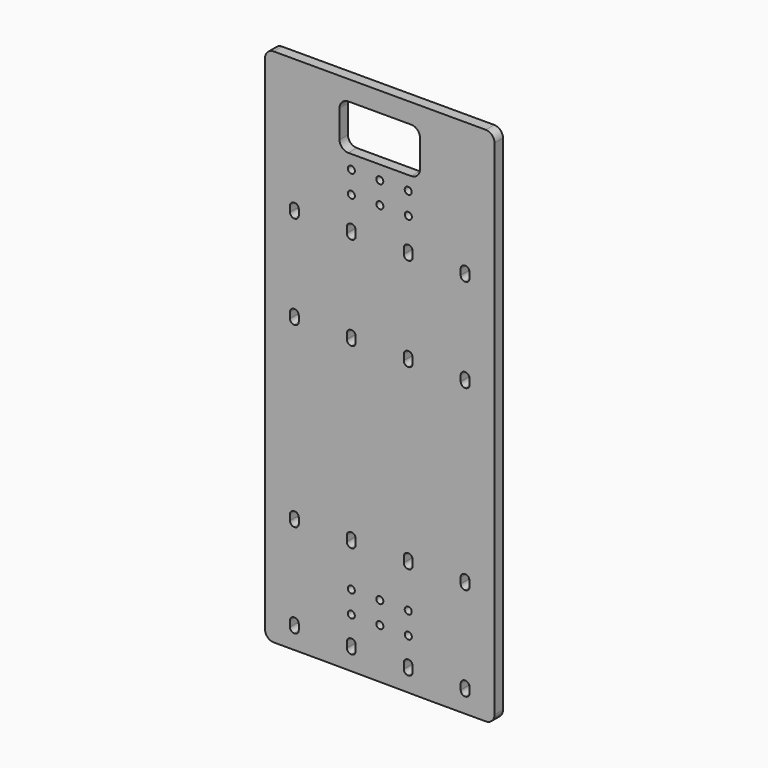
from build123d import *

# Parameters (mm, degrees)
F0_R     = 2
F1_DEPTH = 6


with BuildPart() as f1:
    # F0 (on Front) → F1 (new body)
    with BuildSketch(Plane.XZ):
        with BuildLine():
            Line((-77.552805, -139.906804), (-77.552805, 107.460736))
            Line((-77.552805, 107.460736), (-125.050502, 107.460736))
            ThreePointArc((-125.050502, 107.460736), (-124.724624, 106.873118), (-124.611752, 106.210736))
            ThreePointArc((-124.611752, 106.210736), (-127.274134, 104.323609), (-128.173001, 107.460736))
            Line((-128.173001, 107.460736), (-141.220502, 107.460736))
            ThreePointArc((-141.220502, 107.460736), (-140.894624, 106.873118), (-140.781752, 106.210736))
            ThreePointArc((-140.781752, 106.210736), (-143.444134, 104.323609), (-144.343001, 107.460736))
            Line((-144.343001, 107.460736), (-157.390502, 107.460736))
            ThreePointArc((-157.390502, 107.460736), (-157.064624, 106.873118), (-156.951752, 106.210736))
            ThreePointArc((-156.951752, 106.210736), (-159.614134, 104.323609), (-160.513001, 107.460736))
            Line((-160.513001, 107.460736), (-208.010698, 107.460736))
            Line((-208.010698, 107.460736), (-208.010698, -139.570798))
            ThreePointArc((-208.010698, -139.570798), (-206.546232, -143.106332), (-203.010698, -144.570798))
            Line((-203.010698, -144.570798), (-173.010698, -144.570798))
            Line((-173.010698, -144.570798), (-112.552805, -144.906804))
            Line((-112.552805, -144.906804), (-82.552805, -144.906804))
            ThreePointArc((-82.552805, -144.906804), (-79.017271, -143.442338), (-77.552805, -139.906804))
        make_face()
        with BuildLine():
            Line((-193.810254, -133.860357), (-193.810254, -130.634357))
            ThreePointArc((-193.810254, -130.634357), (-193.111118, -128.946493), (-191.423254, -128.247357))
            Line((-191.423254, -128.247357), (-191.197254, -128.247357))
            ThreePointArc((-191.197254, -128.247357), (-189.50939, -128.946493), (-188.810254, -130.634357))
            Line((-188.810254, -130.634357), (-188.810254, -133.860357))
            ThreePointArc((-188.810254, -133.860357), (-189.50939, -135.548221), (-191.197254, -136.247357))
            Line((-191.197254, -136.247357), (-191.423254, -136.247357))
            ThreePointArc((-191.423254, -136.247357), (-193.111118, -135.548221), (-193.810254, -133.860357))
        make_face(mode=Mode.SUBTRACT)
        with BuildLine():
            ThreePointArc((-193.810254, -77.454357), (-193.111118, -75.766493), (-191.423254, -75.067357))
            Line((-191.423254, -75.067357), (-191.197254, -75.067357))
            ThreePointArc((-191.197254, -75.067357), (-189.50939, -75.766493), (-188.810254, -77.454357))
            Line((-188.810254, -77.454357), (-188.810254, -80.680357))
            ThreePointArc((-188.810254, -80.680357), (-189.50939, -82.368221), (-191.197254, -83.067357))
            Line((-191.197254, -83.067357), (-191.423254, -83.067357))
            ThreePointArc((-191.423254, -83.067357), (-193.111118, -82.368221), (-193.810254, -80.680357))
            Line((-193.810254, -80.680357), (-193.810254, -77.454357))
        make_face(mode=Mode.SUBTRACT)
        with BuildLine():
            Line((-159.083254, -128.247357), (-158.857254, -128.247357))
            ThreePointArc((-158.857254, -128.247357), (-157.16939, -128.946493), (-156.470254, -130.634357))
            Line((-156.470254, -130.634357), (-156.470254, -133.860357))
            ThreePointArc((-156.470254, -133.860357), (-157.16939, -135.548221), (-158.857254, -136.247357))
            Line((-158.857254, -136.247357), (-159.083254, -136.247357))
            ThreePointArc((-159.083254, -136.247357), (-160.771118, -135.548221), (-161.470254, -133.860357))
            Line((-161.470254, -133.860357), (-161.470254, -130.634357))
            ThreePointArc((-161.470254, -130.634357), (-160.771118, -128.946493), (-159.083254, -128.247357))
        make_face(mode=Mode.SUBTRACT)
        with Locations((-158.951752, -116.289175)):
            Circle(F0_R, mode=Mode.SUBTRACT)
        with Locations((-158.951752, -103.789264)):
            Circle(F0_R, mode=Mode.SUBTRACT)
        with Locations((-142.781752, -103.789264)):
            Circle(F0_R, mode=Mode.SUBTRACT)
        with BuildLine():
            ThreePointArc((-161.470254, -77.454357), (-160.771118, -75.766493), (-159.083254, -75.067357))
            Line((-159.083254, -75.067357), (-158.857254, -75.067357))
            ThreePointArc((-158.857254, -75.067357), (-157.16939, -75.766493), (-156.470254, -77.454357))
            Line((-156.470254, -77.454357), (-156.470254, -80.680357))
            ThreePointArc((-156.470254, -80.680357), (-157.16939, -82.368221), (-158.857254, -83.067357))
            Line((-158.857254, -83.067357), (-159.083254, -83.067357))
            ThreePointArc((-159.083254, -83.067357), (-160.771118, -82.368221), (-161.470254, -80.680357))
            Line((-161.470254, -80.680357), (-161.470254, -77.454357))
        make_face(mode=Mode.SUBTRACT)
        with BuildLine():
            ThreePointArc((-129.130254, -130.634357), (-128.431118, -128.946493), (-126.743254, -128.247357))
            Line((-126.743254, -128.247357), (-126.517254, -128.247357))
            ThreePointArc((-126.517254, -128.247357), (-124.82939, -128.946493), (-124.130254, -130.634357))
            Line((-124.130254, -130.634357), (-124.130254, -133.860357))
            ThreePointArc((-124.130254, -133.860357), (-124.82939, -135.548221), (-126.517254, -136.247357))
            Line((-126.517254, -136.247357), (-126.743254, -136.247357))
            ThreePointArc((-126.743254, -136.247357), (-128.431118, -135.548221), (-129.130254, -133.860357))
            Line((-129.130254, -133.860357), (-129.130254, -130.634357))
        make_face(mode=Mode.SUBTRACT)
        with Locations((-142.734582, -116.289175)):
            Circle(F0_R, mode=Mode.SUBTRACT)
        with Locations((-126.564582, -116.289175)):
            Circle(F0_R, mode=Mode.SUBTRACT)
        with Locations((-126.611752, -103.789264)):
            Circle(F0_R, mode=Mode.SUBTRACT)
        with BuildLine():
            ThreePointArc((-129.130254, -77.454357), (-128.431118, -75.766493), (-126.743254, -75.067357))
            Line((-126.743254, -75.067357), (-126.517254, -75.067357))
            ThreePointArc((-126.517254, -75.067357), (-124.82939, -75.766493), (-124.130254, -77.454357))
            Line((-124.130254, -77.454357), (-124.130254, -80.680357))
            ThreePointArc((-124.130254, -80.680357), (-124.82939, -82.368221), (-126.517254, -83.067357))
            Line((-126.517254, -83.067357), (-126.743254, -83.067357))
            ThreePointArc((-126.743254, -83.067357), (-128.431118, -82.368221), (-129.130254, -80.680357))
            Line((-129.130254, -80.680357), (-129.130254, -77.454357))
        make_face(mode=Mode.SUBTRACT)
        with BuildLine():
            ThreePointArc((-94.403254, -136.247357), (-96.091118, -135.548221), (-96.790254, -133.860357))
            Line((-96.790254, -133.860357), (-96.790254, -130.634357))
            ThreePointArc((-96.790254, -130.634357), (-96.091118, -128.946493), (-94.403254, -128.247357))
            Line((-94.403254, -128.247357), (-94.177254, -128.247357))
            ThreePointArc((-94.177254, -128.247357), (-92.48939, -128.946493), (-91.790254, -130.634357))
            Line((-91.790254, -130.634357), (-91.790254, -133.860357))
            ThreePointArc((-91.790254, -133.860357), (-92.48939, -135.548221), (-94.177254, -136.247357))
            Line((-94.177254, -136.247357), (-94.403254, -136.247357))
        make_face(mode=Mode.SUBTRACT)
        with BuildLine():
            ThreePointArc((-94.177254, -75.067357), (-92.48939, -75.766493), (-91.790254, -77.454357))
            Line((-91.790254, -77.454357), (-91.790254, -80.680357))
            ThreePointArc((-91.790254, -80.680357), (-92.48939, -82.368221), (-94.177254, -83.067357))
            Line((-94.177254, -83.067357), (-94.403254, -83.067357))
            ThreePointArc((-94.403254, -83.067357), (-96.091118, -82.368221), (-96.790254, -80.680357))
            Line((-96.790254, -80.680357), (-96.790254, -77.454357))
            ThreePointArc((-96.790254, -77.454357), (-96.091118, -75.766493), (-94.403254, -75.067357))
            Line((-94.403254, -75.067357), (-94.177254, -75.067357))
        make_face(mode=Mode.SUBTRACT)
        with BuildLine():
            ThreePointArc((-191.423254, 18.072643), (-193.111118, 18.771779), (-193.810254, 20.459643))
            Line((-193.810254, 20.459643), (-193.810254, 23.685643))
            ThreePointArc((-193.810254, 23.685643), (-193.111118, 25.373507), (-191.423254, 26.072643))
            Line((-191.423254, 26.072643), (-191.197254, 26.072643))
            ThreePointArc((-191.197254, 26.072643), (-189.50939, 25.373507), (-188.810254, 23.685643))
            Line((-188.810254, 23.685643), (-188.810254, 20.459643))
            ThreePointArc((-188.810254, 20.459643), (-189.50939, 18.771779), (-191.197254, 18.072643))
            Line((-191.197254, 18.072643), (-191.423254, 18.072643))
        make_face(mode=Mode.SUBTRACT)
        with BuildLine():
            ThreePointArc((-191.423254, 71.252643), (-193.111118, 71.951779), (-193.810254, 73.639643))
            Line((-193.810254, 73.639643), (-193.810254, 76.865643))
            ThreePointArc((-193.810254, 76.865643), (-193.111118, 78.553507), (-191.423254, 79.252643))
            Line((-191.423254, 79.252643), (-191.197254, 79.252643))
            ThreePointArc((-191.197254, 79.252643), (-189.50939, 78.553507), (-188.810254, 76.865643))
            Line((-188.810254, 76.865643), (-188.810254, 73.639643))
            ThreePointArc((-188.810254, 73.639643), (-189.50939, 71.951779), (-191.197254, 71.252643))
            Line((-191.197254, 71.252643), (-191.423254, 71.252643))
        make_face(mode=Mode.SUBTRACT)
        with BuildLine():
            ThreePointArc((-159.083254, 18.072643), (-160.771118, 18.771779), (-161.470254, 20.459643))
            Line((-161.470254, 20.459643), (-161.470254, 23.685643))
            ThreePointArc((-161.470254, 23.685643), (-160.771118, 25.373507), (-159.083254, 26.072643))
            Line((-159.083254, 26.072643), (-158.857254, 26.072643))
            ThreePointArc((-158.857254, 26.072643), (-157.16939, 25.373507), (-156.470254, 23.685643))
            Line((-156.470254, 23.685643), (-156.470254, 20.459643))
            ThreePointArc((-156.470254, 20.459643), (-157.16939, 18.771779), (-158.857254, 18.072643))
            Line((-158.857254, 18.072643), (-159.083254, 18.072643))
        make_face(mode=Mode.SUBTRACT)
        with BuildLine():
            ThreePointArc((-159.083254, 71.252643), (-160.771118, 71.951779), (-161.470254, 73.639643))
            Line((-161.470254, 73.639643), (-161.470254, 76.865643))
            ThreePointArc((-161.470254, 76.865643), (-160.771118, 78.553507), (-159.083254, 79.252643))
            Line((-159.083254, 79.252643), (-158.857254, 79.252643))
            ThreePointArc((-158.857254, 79.252643), (-157.16939, 78.553507), (-156.470254, 76.865643))
            Line((-156.470254, 76.865643), (-156.470254, 73.639643))
            ThreePointArc((-156.470254, 73.639643), (-157.16939, 71.951779), (-158.857254, 71.252643))
            Line((-158.857254, 71.252643), (-159.083254, 71.252643))
        make_face(mode=Mode.SUBTRACT)
        with Locations((-158.951752, 93.710825)):
            Circle(F0_R, mode=Mode.SUBTRACT)
        with BuildLine():
            ThreePointArc((-126.743254, 18.072643), (-128.431118, 18.771779), (-129.130254, 20.459643))
            Line((-129.130254, 20.459643), (-129.130254, 23.685643))
            ThreePointArc((-129.130254, 23.685643), (-128.431118, 25.373507), (-126.743254, 26.072643))
            Line((-126.743254, 26.072643), (-126.517254, 26.072643))
            ThreePointArc((-126.517254, 26.072643), (-124.82939, 25.373507), (-124.130254, 23.685643))
            Line((-124.130254, 23.685643), (-124.130254, 20.459643))
            ThreePointArc((-124.130254, 20.459643), (-124.82939, 18.771779), (-126.517254, 18.072643))
            Line((-126.517254, 18.072643), (-126.743254, 18.072643))
        make_face(mode=Mode.SUBTRACT)
        with BuildLine():
            ThreePointArc((-126.743254, 71.252643), (-128.431118, 71.951779), (-129.130254, 73.639643))
            Line((-129.130254, 73.639643), (-129.130254, 76.865643))
            ThreePointArc((-129.130254, 76.865643), (-128.431118, 78.553507), (-126.743254, 79.252643))
            Line((-126.743254, 79.252643), (-126.517254, 79.252643))
            ThreePointArc((-126.517254, 79.252643), (-124.82939, 78.553507), (-124.130254, 76.865643))
            Line((-124.130254, 76.865643), (-124.130254, 73.639643))
            ThreePointArc((-124.130254, 73.639643), (-124.82939, 71.951779), (-126.517254, 71.252643))
            Line((-126.517254, 71.252643), (-126.743254, 71.252643))
        make_face(mode=Mode.SUBTRACT)
        with BuildLine():
            ThreePointArc((-94.403254, 18.072643), (-96.091118, 18.771779), (-96.790254, 20.459643))
            Line((-96.790254, 20.459643), (-96.790254, 23.685643))
            ThreePointArc((-96.790254, 23.685643), (-96.091118, 25.373507), (-94.403254, 26.072643))
            Line((-94.403254, 26.072643), (-94.177254, 26.072643))
            ThreePointArc((-94.177254, 26.072643), (-92.48939, 25.373507), (-91.790254, 23.685643))
            Line((-91.790254, 23.685643), (-91.790254, 20.459643))
            ThreePointArc((-91.790254, 20.459643), (-92.48939, 18.771779), (-94.177254, 18.072643))
            Line((-94.177254, 18.072643), (-94.403254, 18.072643))
        make_face(mode=Mode.SUBTRACT)
        with BuildLine():
            Line((-94.403254, 79.252643), (-94.177254, 79.252643))
            ThreePointArc((-94.177254, 79.252643), (-92.48939, 78.553507), (-91.790254, 76.865643))
            Line((-91.790254, 76.865643), (-91.790254, 73.639643))
            ThreePointArc((-91.790254, 73.639643), (-92.48939, 71.951779), (-94.177254, 71.252643))
            Line((-94.177254, 71.252643), (-94.403254, 71.252643))
            ThreePointArc((-94.403254, 71.252643), (-96.091118, 71.951779), (-96.790254, 73.639643))
            Line((-96.790254, 73.639643), (-96.790254, 76.865643))
            ThreePointArc((-96.790254, 76.865643), (-96.091118, 78.553507), (-94.403254, 79.252643))
        make_face(mode=Mode.SUBTRACT)
        with Locations((-142.734582, 93.710825)):
            Circle(F0_R, mode=Mode.SUBTRACT)
        with Locations((-126.564582, 93.710825)):
            Circle(F0_R, mode=Mode.SUBTRACT)
        with BuildLine():
            ThreePointArc((-77.552805, 107.460736), (-79.017271, 110.99627), (-82.552805, 112.460736))
            Line((-82.552805, 112.460736), (-203.010698, 112.460736))
            ThreePointArc((-203.010698, 112.460736), (-206.546232, 110.99627), (-208.010698, 107.460736))
            Line((-208.010698, 107.460736), (-160.513001, 107.460736))
            ThreePointArc((-160.513001, 107.460736), (-158.951752, 108.210736), (-157.390502, 107.460736))
            Line((-157.390502, 107.460736), (-144.343001, 107.460736))
            ThreePointArc((-144.343001, 107.460736), (-142.781752, 108.210736), (-141.220502, 107.460736))
            Line((-141.220502, 107.460736), (-128.173001, 107.460736))
            ThreePointArc((-128.173001, 107.460736), (-126.611752, 108.210736), (-125.050502, 107.460736))
            Line((-125.050502, 107.460736), (-77.552805, 107.460736))
        make_face()
        with BuildLine():
            Line((-203.010698, 112.460736), (-82.552805, 112.460736))
            ThreePointArc((-82.552805, 112.460736), (-79.017271, 110.99627), (-77.552805, 107.460736))
            Line((-77.552805, 107.460736), (-77.552805, 146.054889))
            ThreePointArc((-77.552805, 146.054889), (-79.017271, 149.590423), (-82.552805, 151.054889))
            Line((-82.552805, 151.054889), (-203.010698, 151.054889))
            ThreePointArc((-203.010698, 151.054889), (-206.546232, 149.590423), (-208.010698, 146.054889))
            Line((-208.010698, 146.054889), (-208.010698, 107.460736))
            ThreePointArc((-208.010698, 107.460736), (-206.546232, 110.99627), (-203.010698, 112.460736))
        make_face()
        with BuildLine():
            ThreePointArc((-119.906805, 119.10889), (-121.371272, 115.573356), (-124.906805, 114.10889))
            Line((-124.906805, 114.10889), (-160.656698, 114.10889))
            ThreePointArc((-160.656698, 114.10889), (-164.192232, 115.573356), (-165.656698, 119.10889))
            Line((-165.656698, 119.10889), (-165.656698, 134.841825))
            ThreePointArc((-165.656698, 134.841825), (-164.192232, 138.377359), (-160.656698, 139.841825))
            Line((-160.656698, 139.841825), (-124.906805, 139.841825))
            ThreePointArc((-124.906805, 139.841825), (-121.371272, 138.377359), (-119.906805, 134.841825))
            Line((-119.906805, 134.841825), (-119.906805, 119.10889))
        make_face(mode=Mode.SUBTRACT)
    extrude(amount=F1_DEPTH)


solid = f1.part
